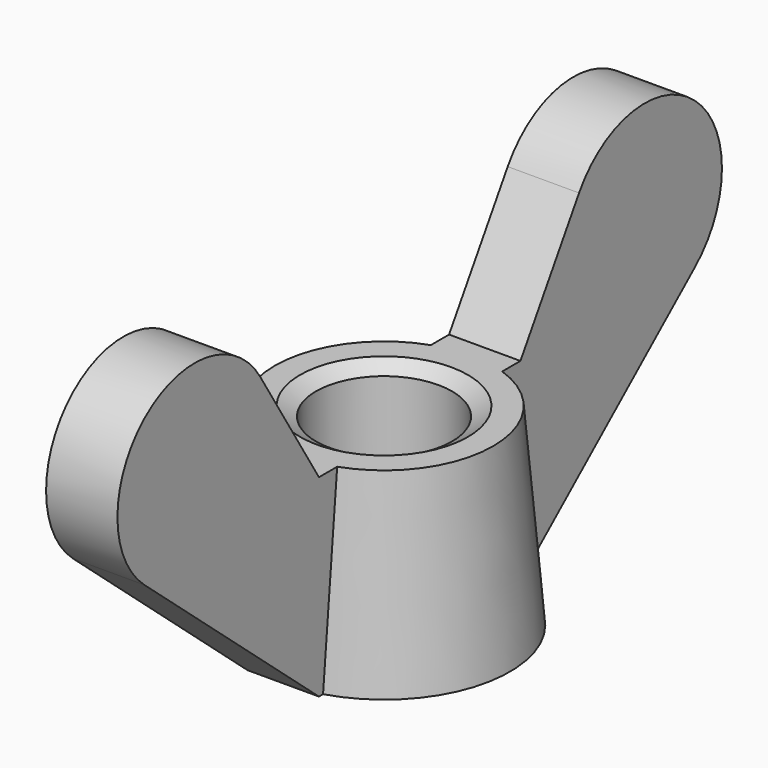
from build123d import *

# Parameters (mm, degrees)
PAD_DEPTH = 0.85


with BuildPart() as pad:
    # Sketch001 → Pad (new body, symmetric)
    with BuildSketch(Plane.YZ):
        with BuildLine():
            Line((2, 0), (2, 4.6))
            Line((2, 4.6), (3, 4.6))
            Line((3, 4.6), (4.745783, 7.412863))
            ThreePointArc((8.196676, 4.453586), (8.197219, 7.945948), (4.745783, 7.412863))
            Line((3, 0), (8.196676, 4.453586))
            Line((2, 0), (3, 0))
        make_face()
        with BuildLine():
            Line((-8.196687, 4.453578), (-3.000004, 0))
            Line((-3.000004, 0), (-2.000004, 0))
            Line((-2.000004, 0), (-2.000004, 4.6))
            Line((-2.000004, 4.6), (-3.000004, 4.6))
            Line((-3.000004, 4.6), (-4.745792, 7.41286))
            ThreePointArc((-4.745792, 7.41286), (-8.19722, 7.945929), (-8.196687, 4.453578))
        make_face()
    extrude(amount=PAD_DEPTH, both=True)


with BuildPart() as obj1:
    # Sketch → Revolution (revolve)
    with BuildSketch(Plane.YZ):
        Polygon((2, 0), (1.62, 0.219393), (1.62, 4.380607), (2, 4.6), (2.6, 4.6), (3, 0), align=None)
    revolve(axis=Axis((0, 0, 0), (0, 0, 1)))

    # Fusion: union Pad
    add(pad.part)


solid = obj1.part
